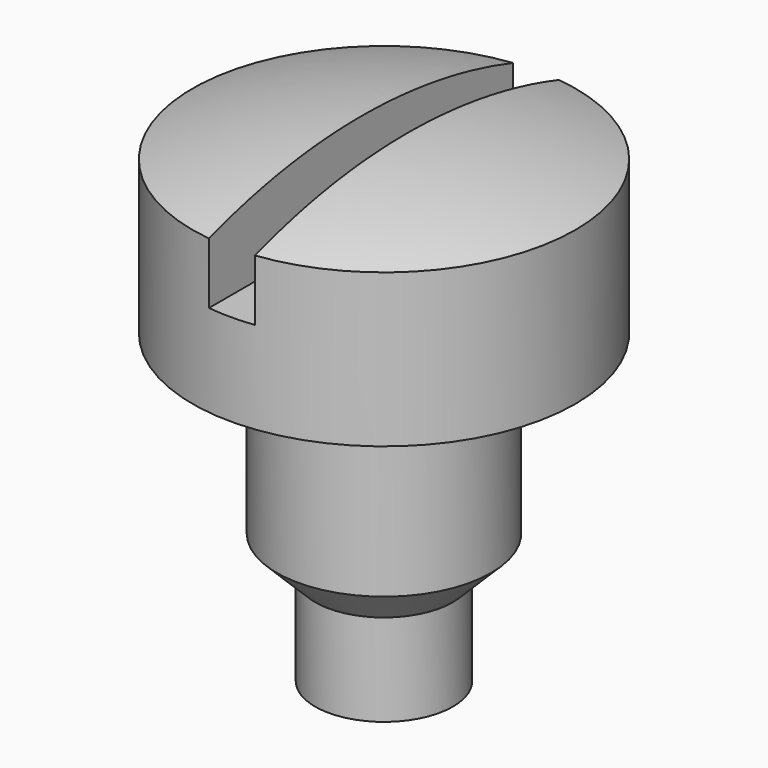
from build123d import *

# Parameters (mm, degrees)
F2_W     = 0.3
F2_H     = 0.65
F3_DEPTH = 12.5


with BuildPart() as f1:
    # F0 (on Front) → F1 (revolve)
    with BuildSketch(Plane.XZ):
        Polygon((0, 3), (0, 0), (0.45, 0), (0.45, 0.6), (0.7, 0.85), (0.7, 2), (1.25, 2), (1.25, 3), align=None)
        with BuildLine():
            Line((0, 3.200329), (0, 3))
            Line((0, 3), (1.25, 3))
            ThreePointArc((1.25, 3), (0.632975, 3.149929), (0, 3.200329))
        make_face()
    revolve(axis=Axis((0, 0, 1.5), (0, 0, -1)))

    # F2 (on Front) → F3 (cut, symmetric)
    with BuildSketch(Plane.XZ):
        with Locations((0, 2.925329)):
            Rectangle(F2_W, F2_H)
    extrude(amount=F3_DEPTH, both=True, mode=Mode.SUBTRACT)


solid = f1.part
